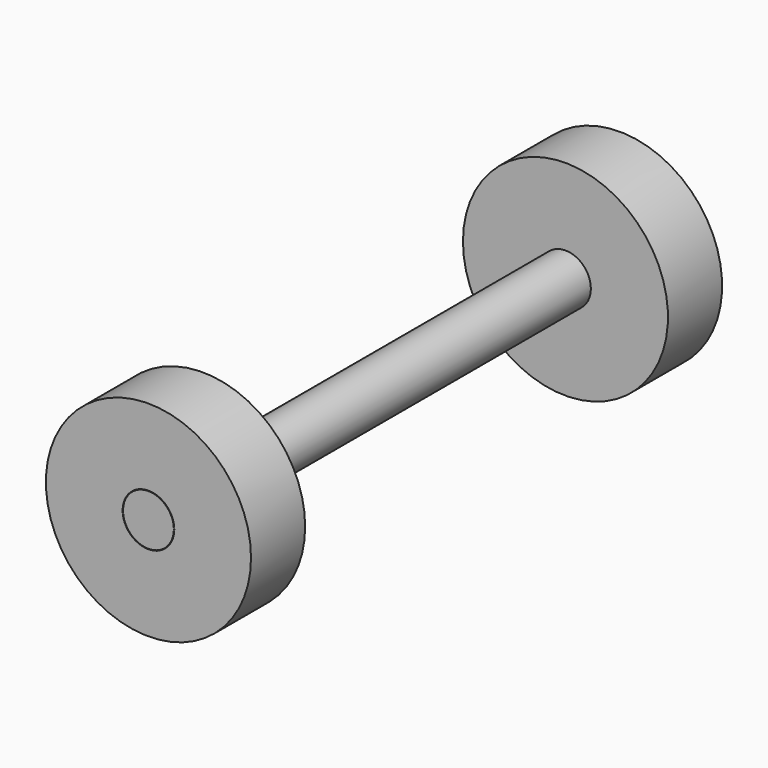
from build123d import *

# Parameters (mm, degrees)
F0_R      = 9.52981
F1_DEPTH  = 170.18
F3_R      = 38.462517
F4_DEPTH  = 25.4
F2_R      = 38.482389
F2_R_2    = 9.693022
F5_DEPTH  = 25.4
F1_FACE_R = 9.52981
F6_DEPTH  = 25.4


with BuildPart() as f1:
    # F0 (on Front) → F1 (new body)
    with BuildSketch(Plane.XZ):
        with Locations((0, -3.324065)):
            Circle(F0_R)
    extrude(amount=F1_DEPTH)

    # F3 (on face) → F4 (join)
    with BuildSketch(Plane(origin=(0, 0, 0), x_dir=(-1, 0, 0), z_dir=(0, 1, 0))):
        with Locations((0, -3.324065)):
            Circle(F3_R)
    extrude(amount=F4_DEPTH)

    # F1_face (on face) → F6 (join)
    with BuildSketch(Plane(origin=(0, -170.18, -3.324065), x_dir=(1, 0, 0), z_dir=(0, -1, 0))):
        Circle(F1_FACE_R)
    extrude(amount=F6_DEPTH)


with BuildPart() as f5:
    # F2 (on face) → F5 (new body)
    with BuildSketch(Plane.XZ.offset(170.18)):
        with Locations((0, -3.324065)):
            Circle(F2_R)
        with Locations((0, -3.324065)):
            Circle(F2_R_2, mode=Mode.SUBTRACT)
    extrude(amount=F5_DEPTH)


solid = Compound([f1.part, f5.part])
